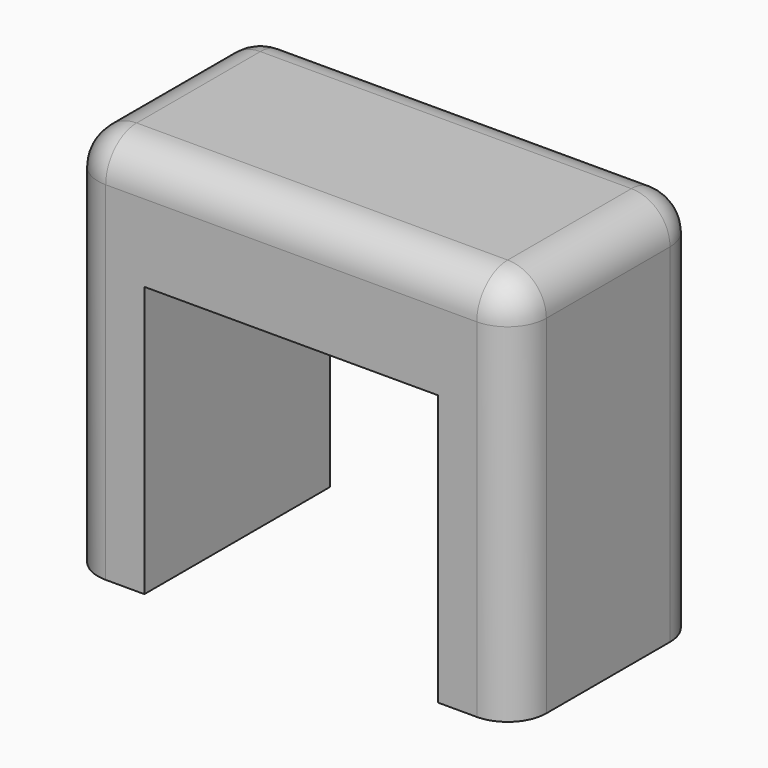
from build123d import *

# Parameters (mm, degrees)
F0_W     = 38
F0_H     = 15
F1_DEPTH = 30
F2_R     = 5


with BuildPart() as f1:
    # F0 (on Front) → F1 (new body)
    with BuildSketch(Plane.XZ):
        Polygon((10, 0), (0, 0), (0, -50), (10, -50), (10, -15), align=None)
        with Locations((29, -7.5)):
            Rectangle(F0_W, F0_H)
        Polygon((58, 0), (48, 0), (48, -15), (48, -50), (58, -50), align=None)
    extrude(amount=F1_DEPTH)

    # F2
    f2_edges = [f1.edges().sort_by_distance(p)[0] for p in [
        (0, -15, 0),
        (29, 0, 0),
        (58, -15, 0),
        (29, -30, 0),
        (0, 0, -25),
        (0, -30, -25),
        (58, -30, -25),
        (58, 0, -25),
    ]]
    fillet(f2_edges, radius=F2_R)


solid = f1.part
